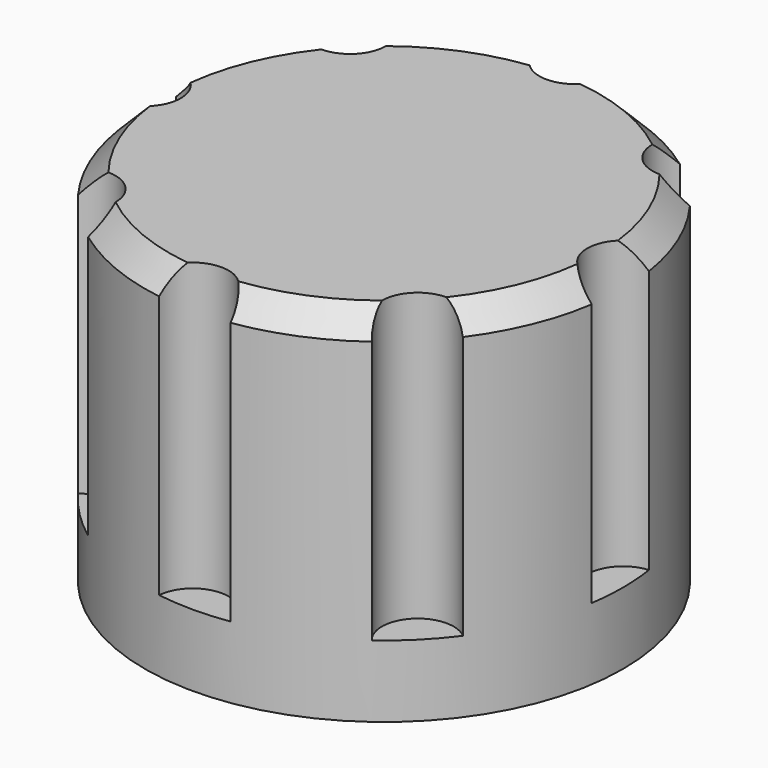
from build123d import *

# Parameters (mm, degrees)
CYLINDER003_R     = 1.5
CYLINDER003_DEPTH = 40
ARRAY001_COUNT    = 8
CYLINDER002_R     = 10
CYLINDER002_DEPTH = 15
CHAMFER_SIZE      = 1
CHAMFER001_SIZE   = 1
CHAMFER002_SIZE   = 1
CHAMFER003_SIZE   = 1
CHAMFER004_SIZE   = 1
CHAMFER005_SIZE   = 1
CHAMFER006_SIZE   = 1
CHAMFER007_SIZE   = 1


with BuildPart() as array001:
    # Cylinder003 → Cylinder003 (new body)
    with BuildSketch(Plane.XY):
        Circle(CYLINDER003_R)
    extrude(amount=CYLINDER003_DEPTH)

    # Array001: Array001 ×8 about axis
    array001_axis = Axis((0, 10, 0), (0, 0, 1))


with BuildPart() as array001_1:
    add(array001.part)
    for i in range(1, ARRAY001_COUNT):
        add(array001.part.rotate(array001_axis, i * 360 / ARRAY001_COUNT))


with BuildPart() as array001_2:
    # Array001 placement: moved
    add(array001_1.part.moved(Location((0, 0, 3))))


with BuildPart() as chamfer007:
    # Cylinder002 → Cylinder002 (new body)
    with BuildSketch(Plane(origin=(0, 10, 0), x_dir=(1, 0, 0), z_dir=(0, 0, 1))):
        Circle(CYLINDER002_R)
    extrude(amount=CYLINDER002_DEPTH)

    # Cut001: cut Array001
    add(array001_2.part, mode=Mode.SUBTRACT)

    # Chamfer
    chamfer_edges = [chamfer007.edges().sort_by_distance(p)[0] for p in [
        (-3.826834, 0.761205, 15),
    ]]
    chamfer(chamfer_edges, length=CHAMFER_SIZE)

    # Chamfer001
    chamfer001_edges = [chamfer007.edges().sort_by_distance(p)[0] for p in [
        (3.826834, 0.761205, 15),
    ]]
    chamfer(chamfer001_edges, length=CHAMFER001_SIZE)

    # Chamfer002
    chamfer002_edges = [chamfer007.edges().sort_by_distance(p)[0] for p in [
        (-9.238795, 6.173166, 15),
    ]]
    chamfer(chamfer002_edges, length=CHAMFER002_SIZE)

    # Chamfer003
    chamfer003_edges = [chamfer007.edges().sort_by_distance(p)[0] for p in [
        (9.238795, 6.173166, 15),
    ]]
    chamfer(chamfer003_edges, length=CHAMFER003_SIZE)

    # Chamfer004
    chamfer004_edges = [chamfer007.edges().sort_by_distance(p)[0] for p in [
        (9.238795, 13.826834, 15),
    ]]
    chamfer(chamfer004_edges, length=CHAMFER004_SIZE)

    # Chamfer005
    chamfer005_edges = [chamfer007.edges().sort_by_distance(p)[0] for p in [
        (3.826834, 19.238795, 15),
    ]]
    chamfer(chamfer005_edges, length=CHAMFER005_SIZE)

    # Chamfer006
    chamfer006_edges = [chamfer007.edges().sort_by_distance(p)[0] for p in [
        (-9.238795, 13.826834, 15),
    ]]
    chamfer(chamfer006_edges, length=CHAMFER006_SIZE)

    # Chamfer007
    chamfer007_edges = [chamfer007.edges().sort_by_distance(p)[0] for p in [
        (-3.826834, 19.238795, 15),
    ]]
    chamfer(chamfer007_edges, length=CHAMFER007_SIZE)


solid = chamfer007.part
